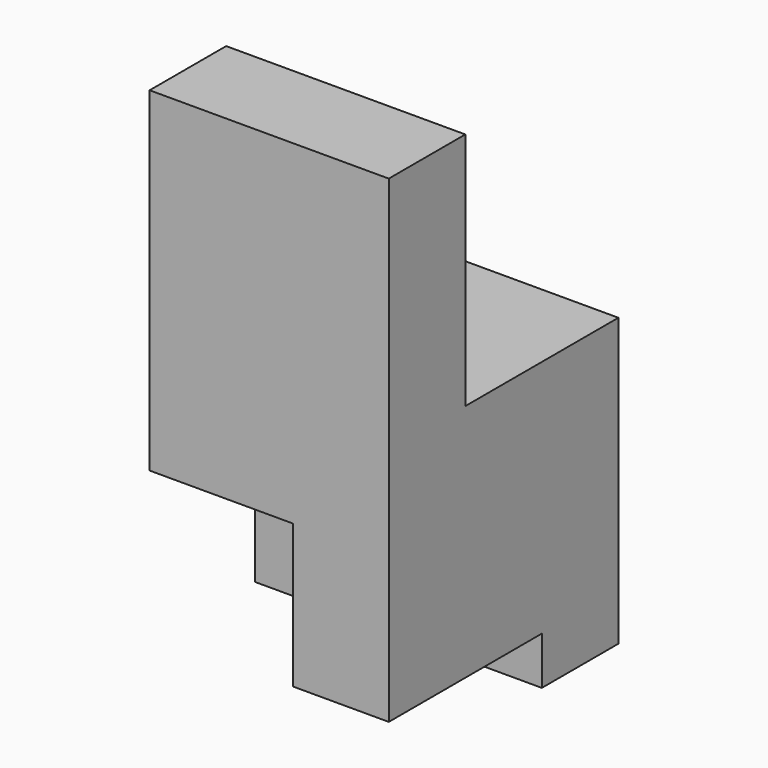
from build123d import *

# Parameters (mm, degrees)
F0_W     = 152.4
F0_H     = 127
F1_DEPTH = 50.8
F3_DEPTH = 101.6
F5_DEPTH = 25.4
F6_W     = 127
F6_H     = 50.8
F7_DEPTH = 127


with BuildPart() as f1:
    # F0 (on Front) → F1 (new body)
    with BuildSketch(Plane.XZ):
        with Locations((-6.594061, 23.633106)):
            Rectangle(F0_W, F0_H)
    extrude(amount=F1_DEPTH)

    # F2 (on face) → F3 (join)
    with BuildSketch(Plane.XZ.offset(50.8)):
        Polygon((18.805939, -14.466894), (69.605939, -14.466894), (69.605939, 87.133106), (-57.394061, 87.133106), (-57.394061, 61.733106), (18.805939, 61.733106), align=None)
    extrude(amount=F3_DEPTH)

    # F4 (on face) → F5 (join)
    with BuildSketch(Plane.XY.offset(87.133106)):
        Polygon((69.605939, 0), (-82.794061, 0), (-82.794061, -50.8), (-57.394061, -50.8), (-57.394061, -152.4), (69.605939, -152.4), align=None)
    extrude(amount=F5_DEPTH)

    # F6 (on face) → F7 (join)
    with BuildSketch(Plane.XY.offset(112.533106)):
        with Locations((6.105939, -127)):
            Rectangle(F6_W, F6_H)
    extrude(amount=F7_DEPTH)


solid = f1.part
